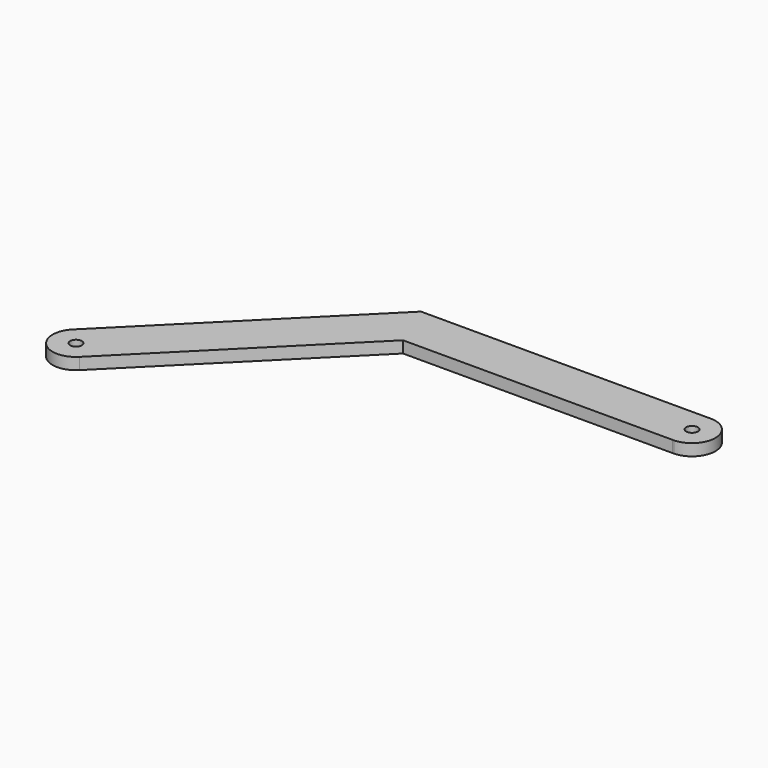
from build123d import *

# Parameters (mm, degrees)
F1_DEPTH = 6.35


with BuildPart() as f1:
    # F0 (on Top) → F1 (new body)
    with BuildSketch(Plane.XY):
        with BuildLine():
            ThreePointArc((2.245064, 2.245064), (-2.933318, -1.21502), (3.175, 0))
            ThreePointArc((3.175, 0), (2.933318, 1.21502), (2.245064, 2.245064))
        make_face()
        with BuildLine():
            ThreePointArc((257.175, 101.6), (254, 104.775), (250.825, 101.6))
            ThreePointArc((250.825, 101.6), (254, 98.425), (257.175, 101.6))
        make_face()
        with BuildLine():
            Line((96.336235, 114.296748), (-8.980256, 8.980256))
            ThreePointArc((-8.980256, 8.980256), (-8.980256, -8.980256), (8.980256, -8.980256))
            Line((8.980256, -8.980256), (106.867889, 88.907377))
            Line((106.867889, 88.907377), (253.567194, 88.907377))
            Line((253.567194, 88.907377), (254.432806, 88.907377))
            ThreePointArc((254.432806, 88.907377), (266.699792, 101.67273), (254.287404, 114.296748))
            Line((254.287404, 114.296748), (253.712596, 114.296748))
            Line((253.712596, 114.296748), (96.336235, 114.296748))
        make_face()
        with BuildLine():
            ThreePointArc((2.245064, 2.245064), (2.933318, 1.21502), (3.175, 0))
            ThreePointArc((3.175, 0), (-2.933318, -1.21502), (2.245064, 2.245064))
        make_face(mode=Mode.SUBTRACT)
        with BuildLine():
            ThreePointArc((257.175, 101.6), (254, 98.425), (250.825, 101.6))
            ThreePointArc((250.825, 101.6), (254, 104.775), (257.175, 101.6))
        make_face(mode=Mode.SUBTRACT)
        with BuildLine():
            ThreePointArc((254.287404, 114.296748), (254, 114.3), (253.712596, 114.296748))
            Line((253.712596, 114.296748), (254.287404, 114.296748))
        make_face()
        with BuildLine():
            Line((254.432806, 88.907377), (253.567194, 88.907377))
            ThreePointArc((253.567194, 88.907377), (254, 88.9), (254.432806, 88.907377))
        make_face()
    extrude(amount=F1_DEPTH)


solid = f1.part
